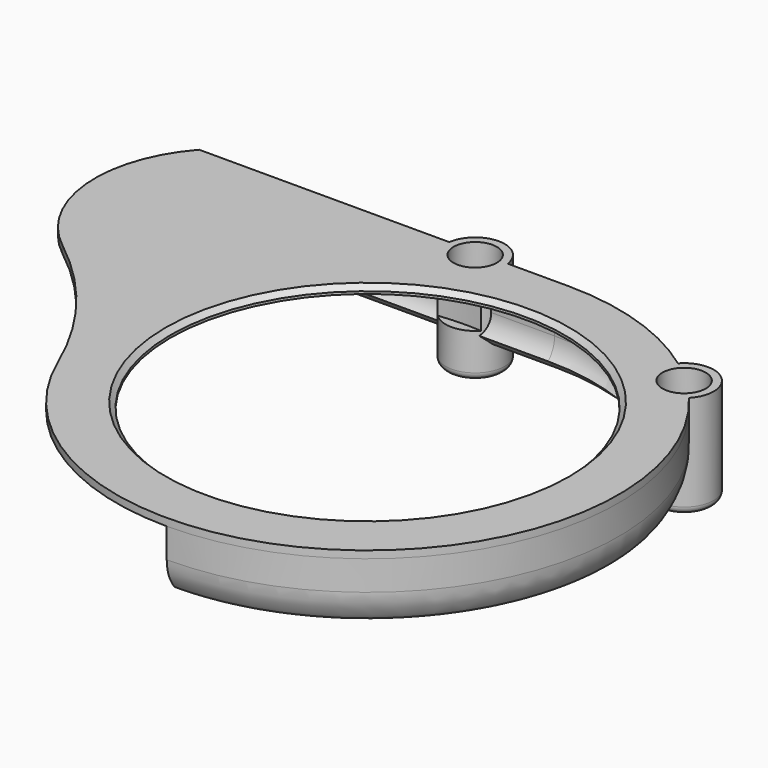
from build123d import *

# Parameters (mm, degrees)
CYLINDER004_R     = 48
CYLINDER004_DEPTH = 8
CYLINDER_R        = 46
CYLINDER_DEPTH    = 8
REVOLUTION_ANGLE  = -180
SKETCH_R          = 40
PAD_DEPTH         = 1.5
PAD001_DEPTH      = 75
SKETCH005_R       = 6
PAD002_DEPTH      = 21
SKETCH012_R       = 2.6
POCKET_DEPTH      = 21.001
SKETCH013_R       = 4.4
POCKET001_DEPTH   = 5
SKETCH008_W       = 35.7258
SKETCH008_H       = 35.7258
POCKET002_DEPTH   = 1.5
CHAMFER_SIZE      = 1
FILLET_R          = 1
FILLET001_R       = 1
FILLET002_R       = 1
FILLET003_R       = 1.5


with BuildPart() as cylinder004:
    # Cylinder004 → Cylinder004 (new body)
    with BuildSketch(Plane(origin=(-17, -1.8, -9), x_dir=(1, 0, 0), z_dir=(0, 0, 1))):
        Circle(CYLINDER004_R)
    extrude(amount=CYLINDER004_DEPTH)


with BuildPart() as cylinder:
    # Cylinder → Cylinder (new body)
    with BuildSketch(Plane.XY.offset(-9)):
        Circle(CYLINDER_R)
    extrude(amount=CYLINDER_DEPTH)


with BuildPart() as revolution:
    # Sketch004 → Revolution (revolve)
    with BuildSketch(Plane.YZ):
        with BuildLine():
            Line((48.363961, -12.363961), (45.889087, -9.889088))
            ThreePointArc((45.889087, -9.889088), (47.081337, -8.104759), (47.5, -6))
            Line((47.5, -6), (47.5, 0))
            Line((47.5, 0), (51, 0))
            Line((51, -6), (51, 0))
            ThreePointArc((48.363961, -12.363961), (50.314916, -9.444151), (51, -6))
        make_face()
    revolve(axis=Axis((0, 0, 0), (0, 0, 1)), revolution_arc=REVOLUTION_ANGLE)


with BuildPart() as pad:
    # Sketch → Pad (new body)
    with BuildSketch(Plane.XY):
        with BuildLine():
            ThreePointArc((-46.914816, -20), (42.549971, -28.115832), (0, 51))
            Line((-75, 51), (0, 51))
            ThreePointArc((-75, 51), (-81.690324, 30.60121), (-71.383422, 11.769352))
            ThreePointArc((-46.914816, -20), (-57.126294, -2.557354), (-71.383422, 11.769352))
        make_face()
        Circle(SKETCH_R, mode=Mode.SUBTRACT)
    extrude(amount=PAD_DEPTH)


with BuildPart() as fillet003:
    # Sketch009 → Pad001 (new body)
    with BuildSketch(Plane.YZ):
        with BuildLine():
            Line((48.363961, -12.363961), (45.889087, -9.889088))
            ThreePointArc((45.889087, -9.889088), (47.081337, -8.104759), (47.5, -6))
            Line((47.5, -6), (47.5, 0))
            Line((47.5, 0), (51, 0))
            Line((51, -6), (51, 0))
            ThreePointArc((48.363961, -12.363961), (50.314916, -9.444151), (51, -6))
        make_face()
    extrude(amount=-PAD001_DEPTH)

    # Fusion: union Revolution, Pad
    add(revolution.part)
    add(pad.part)

    # Sketch005 → Pad002 (new body)
    with BuildSketch(Plane.XY.offset(1.5)):
        with Locations((-18.253752, 50.151771)):
            Circle(SKETCH005_R)
        with Locations((34.620146, 37.125562)):
            Circle(SKETCH005_R)
    extrude(amount=-PAD002_DEPTH)

    # Sketch012 → Pocket (cut, through all)
    with BuildSketch(Plane.XY.offset(1.5)):
        with Locations((-18.253752, 50.151771)):
            Circle(SKETCH012_R)
        with Locations((34.620146, 37.125562)):
            Circle(SKETCH012_R)
    extrude(amount=-POCKET_DEPTH, mode=Mode.SUBTRACT)

    # Sketch013 → Pocket001 (cut)
    with BuildSketch(Plane.XY.offset(1.5)):
        with Locations((-18.253752, 50.151771)):
            Circle(SKETCH013_R)
        with Locations((34.620146, 37.125562)):
            Circle(SKETCH013_R)
    extrude(amount=-POCKET001_DEPTH, mode=Mode.SUBTRACT)

    # Sketch008 → Pocket002 (cut)
    with BuildSketch(Plane(origin=(0, 0, -19.5), x_dir=(1, 0, 0), z_dir=(0, 0, -1))):
        with Locations((-17.8629, -50.7062)):
            Rectangle(SKETCH008_W, SKETCH008_H)
    extrude(amount=-POCKET002_DEPTH, mode=Mode.SUBTRACT)

    # Cut: cut Cylinder
    add(cylinder.part, mode=Mode.SUBTRACT)

    # Cut001: cut Cylinder004
    add(cylinder004.part, mode=Mode.SUBTRACT)

    # Chamfer
    chamfer_edges = [fillet003.edges().sort_by_distance(p)[0] for p in [
        (-40, 0, 1.5),
    ]]
    chamfer(chamfer_edges, length=CHAMFER_SIZE)

    # Fillet
    fillet_edges = [fillet003.edges().sort_by_distance(p)[0] for p in [
        (43.945626, -20.195412, -12.363961),
    ]]
    fillet(fillet_edges, radius=FILLET_R)

    # Fillet001
    fillet001_edges = [fillet003.edges().sort_by_distance(p)[0] for p in [
        (15.200855, 45.913034, -12.363961),
    ]]
    fillet(fillet001_edges, radius=FILLET001_R)

    # Fillet002
    fillet002_edges = [fillet003.edges().sort_by_distance(p)[0] for p in [
        (-49.490603, 48.363961, -12.363961),
    ]]
    fillet(fillet002_edges, radius=FILLET002_R)

    # Fillet003
    fillet003_edges = [fillet003.edges().sort_by_distance(p)[0] for p in [
        (-24.253752, 50.151771, -18),
        (28.620146, 37.125562, -19.5),
    ]]
    fillet(fillet003_edges, radius=FILLET003_R)


solid = fillet003.part
